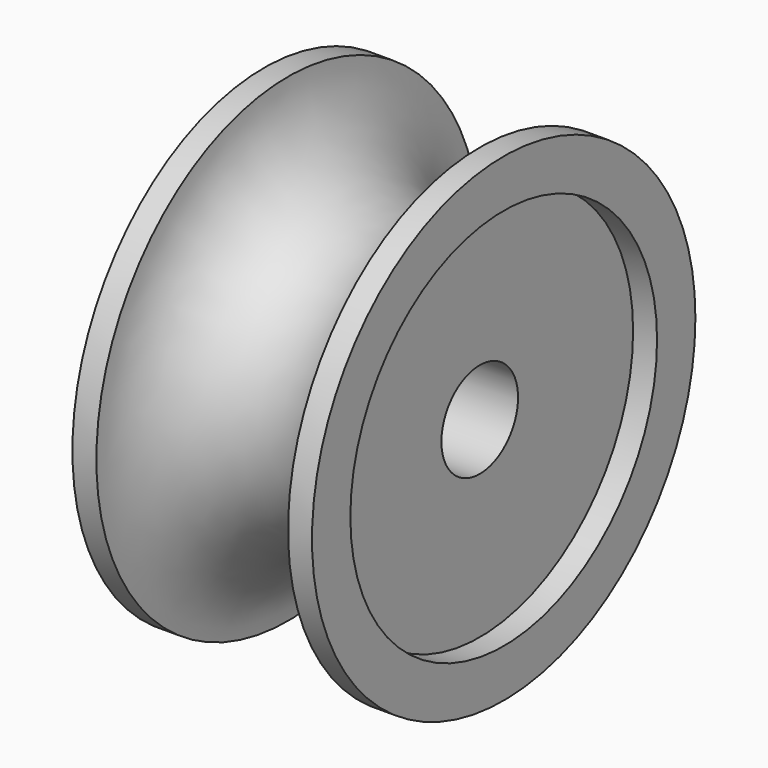
from build123d import *

# Parameters (mm, degrees)
F4_D = 10.16


with BuildPart() as f2:
    # F0 (on Top) → F2 (revolve)
    with BuildSketch(Plane.XY):
        with BuildLine():
            Line((12.7, 20.32), (12.7, 25.4))
            Line((12.7, 25.4), (10.16, 25.4))
            ThreePointArc((10.16, 25.4), (0, 15.24), (-10.16, 25.4))
            Line((-10.16, 25.4), (-12.7, 25.4))
            Line((-12.7, 25.4), (-12.7, 20.32))
            Line((-12.7, 20.32), (-10.16, 20.32))
            Line((-10.16, 20.32), (-10.16, 0))
            Line((-10.16, 0), (10.16, 0))
            Line((10.16, 0), (10.16, 20.32))
            Line((10.16, 20.32), (12.7, 20.32))
        make_face()
    revolve(axis=Axis((-14.085244, 0, 0), (1, 0, 0)))

    # F4 (through all)
    with Locations(Plane.YZ.offset(12.7)):
        with Locations((0, 0)):
            Hole(F4_D / 2)


solid = f2.part
